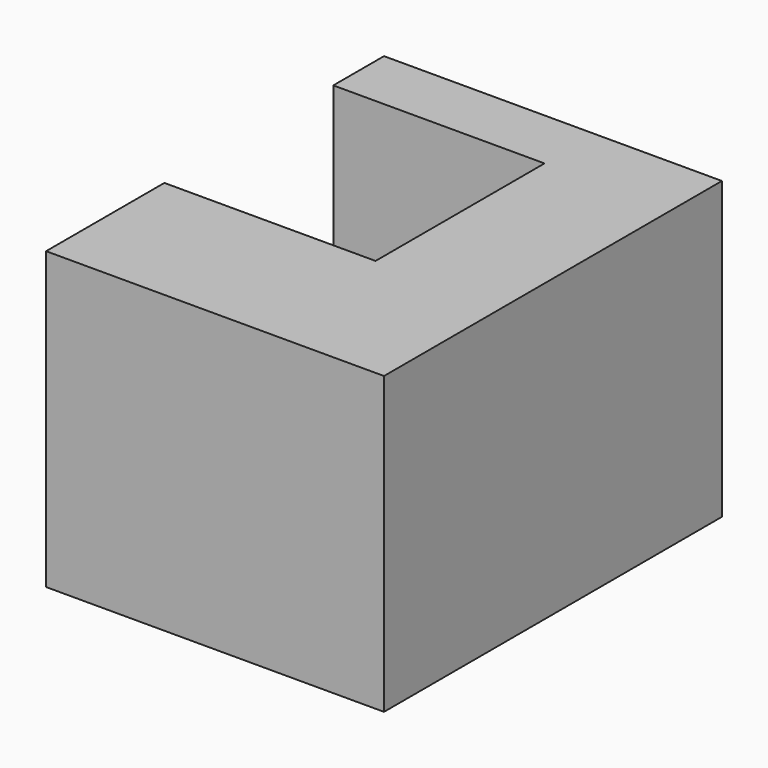
from build123d import *

# Parameters (mm, degrees)
PAD_DEPTH = 70


with BuildPart() as part:
    # Sketch → Pad (new body)
    with BuildSketch(Plane.XY):
        Polygon((-60.483935, 51.169415), (19.516065, 51.169415), (19.516065, -48.830585), (-60.483935, -48.830585), (-60.483935, -13.830585), (-10.483935, -13.830585), (-10.483935, 36.169415), (-60.483935, 36.169415), align=None)
    extrude(amount=PAD_DEPTH)


solid = part.part
